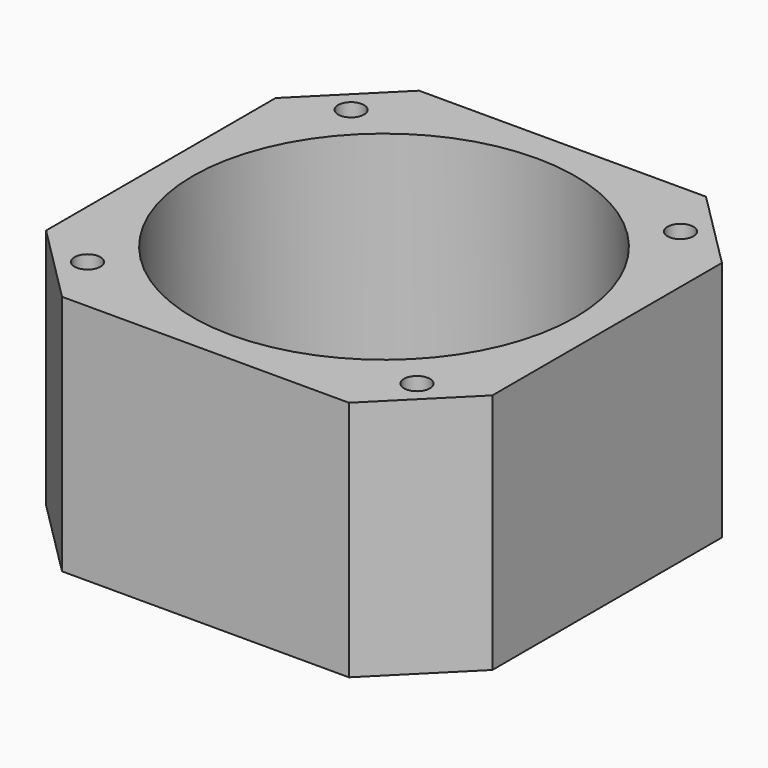
from build123d import *

# Parameters (mm, degrees)
SKETCH027_W     = 42
SKETCH027_H     = 42
PAD002_DEPTH    = 22.75
CHAMFER005_SIZE = 7.5
SKETCH032_R     = 1.22
POCKET001_DEPTH = 22.751
SKETCH037_R     = 18
POCKET_DEPTH    = 22.751


with BuildPart() as part:
    # Sketch027 → Pad002 (new body)
    with BuildSketch(Plane.XY):
        Rectangle(SKETCH027_W, SKETCH027_H)
    extrude(amount=PAD002_DEPTH)

    # Chamfer005
    chamfer005_edges = [part.edges().sort_by_distance(p)[0] for p in [
        (-21, -21, 11.375),
        (-21, 21, 11.375),
        (21, -21, 11.375),
        (21, 21, 11.375),
    ]]
    chamfer(chamfer005_edges, length=CHAMFER005_SIZE)

    # Sketch032 (on Face2 of Chamfer005) → Pocket001 (cut, through all)
    with BuildSketch(Plane(origin=(0, 0, 0), x_dir=(1, 0, 0), z_dir=(0, 0, -1))):
        with Locations((-15.5, 15.5)):
            Circle(SKETCH032_R)
        with Locations((15.5, 15.5)):
            Circle(SKETCH032_R)
        with Locations((15.5, -15.5)):
            Circle(SKETCH032_R)
        with Locations((-15.5, -15.5)):
            Circle(SKETCH032_R)
    extrude(amount=-POCKET001_DEPTH, mode=Mode.SUBTRACT)

    # Sketch037 (on Face5 of Pocket001) → Pocket (cut, through all)
    with BuildSketch(Plane.XY.offset(22.75)):
        Circle(SKETCH037_R)
    extrude(amount=-POCKET_DEPTH, mode=Mode.SUBTRACT)


with BuildPart() as part_1:
    # Body001 placement: moved
    add(part.part.moved(Location((0, 0, 9.6))))


solid = part_1.part
